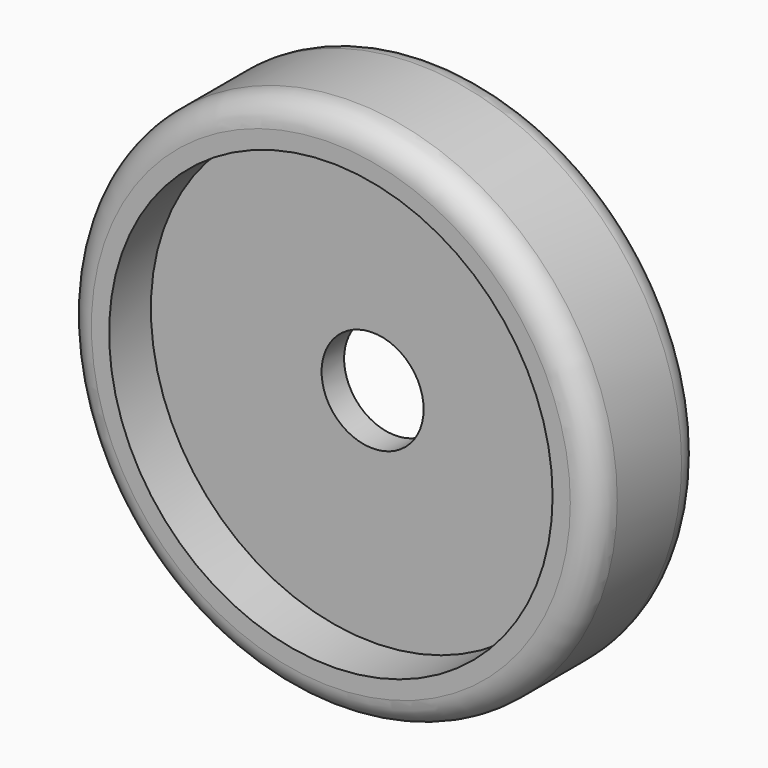
from build123d import *

# Parameters (mm, degrees)
F0_R     = 50.9
F0_R_2   = 40.9
F1_DEPTH = 12.7
F2_R     = 5
F3_R     = 42.5
F4_DEPTH = 10
F5_R     = 42.5
F6_DEPTH = 10
F7_R     = 9.779
F8_DEPTH = 5.4


with BuildPart() as f1:
    # F0 (on Front) → F1 (new body, symmetric)
    with BuildSketch(Plane.XZ):
        Circle(F0_R)
        Circle(F0_R_2, mode=Mode.SUBTRACT)
        Circle(F0_R_2)
    extrude(amount=F1_DEPTH, both=True)

    # F2
    f2_edges = [f1.edges().sort_by_distance(p)[0] for p in [
        (-50.9, -12.7, 0),
        (-50.9, 12.7, 0),
    ]]
    fillet(f2_edges, radius=F2_R)

    # F3 (on face) → F4 (cut)
    with BuildSketch(Plane.XZ.offset(12.7)):
        Circle(F3_R)
    extrude(amount=-F4_DEPTH, mode=Mode.SUBTRACT)

    # F5 (on face) → F6 (cut)
    with BuildSketch(Plane(origin=(0, 12.7, 0), x_dir=(-1, 0, 0), z_dir=(0, 1, 0))):
        Circle(F5_R)
    extrude(amount=-F6_DEPTH, mode=Mode.SUBTRACT)

    # F7 (on face) → F8 (cut, through all)
    with BuildSketch(Plane.XZ.offset(2.7)):
        Circle(F7_R)
    extrude(amount=-F8_DEPTH, mode=Mode.SUBTRACT)


solid = f1.part
